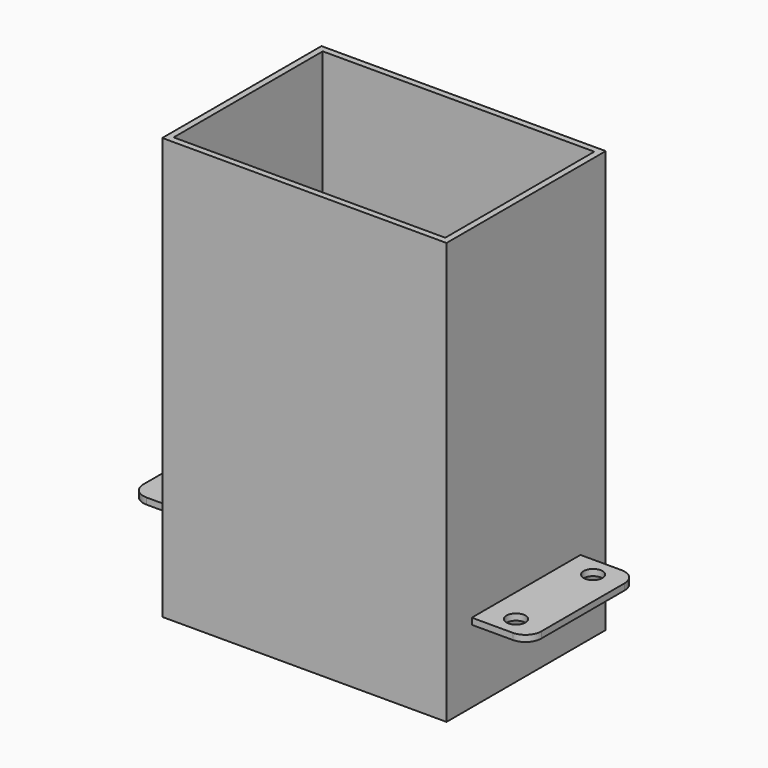
from build123d import *

# Parameters (mm, degrees)
F0_R     = 1.5
F1_DEPTH = 1
F4_DEPTH = 66.75
F5_DEPTH = 1


with BuildPart() as f1:
    # F0 (on Top) → F1 (new body)
    with BuildSketch(Plane.XY):
        with BuildLine():
            ThreePointArc((-29, 10.75), (-30.767766953, 10.017766953), (-31.5, 8.25))
            Line((-31.5, 8.25), (-31.5, -8.25))
            ThreePointArc((-31.5, -8.25), (-30.767766953, -10.017766953), (-29, -10.75))
            Line((-29, -10.75), (-22.5, -10.75))
            Line((-22.5, -10.75), (-22.5, 10.75))
            Line((-22.5, 10.75), (-29, 10.75))
        make_face()
        with Locations((-27, -7.625)):
            Circle(F0_R, mode=Mode.SUBTRACT)
        with Locations((-27, 7.625)):
            Circle(F0_R, mode=Mode.SUBTRACT)
    extrude(amount=F1_DEPTH)



with BuildPart() as f1b:
    # F0 (on Top) → F1, piece 2 (new body)
    with BuildSketch(Plane.XY):
        with BuildLine():
            Line((29, 10.75), (22.5, 10.75))
            Line((22.5, 10.75), (22.5, -10.75))
            Line((22.5, -10.75), (29, -10.75))
            ThreePointArc((29, -10.75), (30.767766953, -10.017766953), (31.5, -8.25))
            Line((31.5, -8.25), (31.5, 8.25))
            ThreePointArc((31.5, 8.25), (30.767766953, 10.017766953), (29, 10.75))
        make_face()
        with Locations((27, -7.625)):
            Circle(F0_R, mode=Mode.SUBTRACT)
        with Locations((27, 7.625)):
            Circle(F0_R, mode=Mode.SUBTRACT)
    extrude(amount=F1_DEPTH)


with BuildPart() as f1_1:
    add(f1.part)

    add(f1b.part)  # F4 merges F1b
    # F3 (on offset) → F4 (join)
    with BuildSketch(Plane(origin=(0, 0, -11.5), x_dir=(1, 0, 0), z_dir=(0, 0, -1))):
        Polygon((-22.5, 10.75), (-22.5, -10.75), (-22.5, -15.75), (22.5, -15.75), (22.5, -10.75), (22.5, 10.75), (22.5, 15.75), (-22.5, 15.75), align=None)
        Polygon((-21.5, -14.75), (-21.5, -10.75), (-21.5, 10.75), (-21.5, 14.75), (21.5, 14.75), (21.5, 10.75), (21.5, -10.75), (21.5, -14.75), (8, -14.75), (-8, -14.75), align=None, mode=Mode.SUBTRACT)
    extrude(amount=-F4_DEPTH)

    # F3 (on offset) → F5 (join)
    with BuildSketch(Plane(origin=(0, 0, -11.5), x_dir=(1, 0, 0), z_dir=(0, 0, -1))):
        with BuildLine():
            Line((-21.5, 10.75), (-21.5, -10.75))
            Line((-21.5, -10.75), (-21.5, -14.75))
            Line((-21.5, -14.75), (-8, -14.75))
            Line((-8, -14.75), (-8, 0))
            ThreePointArc((-8, 0), (0, 8), (8, 0))
            Line((8, 0), (8, -14.75))
            Line((8, -14.75), (21.5, -14.75))
            Line((21.5, -14.75), (21.5, -10.75))
            Line((21.5, -10.75), (21.5, 10.75))
            Line((21.5, 10.75), (21.5, 14.75))
            Line((21.5, 14.75), (-21.5, 14.75))
            Line((-21.5, 14.75), (-21.5, 10.75))
        make_face()
    extrude(amount=-F5_DEPTH)


solid = f1_1.part
